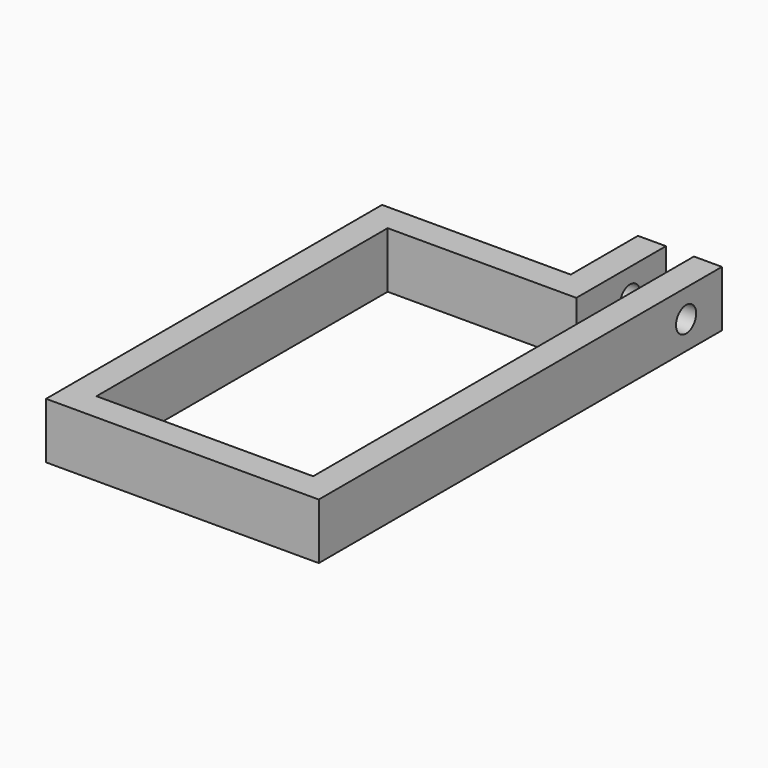
from build123d import *

# Parameters (mm, degrees)
F1_DEPTH = 10
F2_R     = 2.25
F3_DEPTH = 15.001


with BuildPart() as f1:
    # F0 (on Top) → F1 (new body)
    with BuildSketch(Plane.XY):
        Polygon((0, 75), (0, 0), (48.7, 0), (48.7, 90), (43.7, 90), (43.7, 5), (5, 5), (5, 70), (38.7, 70), (38.7, 90), (33.7, 90), (33.7, 75), align=None)
    extrude(amount=F1_DEPTH)

    # F2 (on face) → F3 (cut, through all)
    with BuildSketch(Plane(origin=(33.7, 0, 0), x_dir=(0, -1, 0), z_dir=(-1, 0, 0))):
        with Locations((-82, 5)):
            Circle(F2_R)
    extrude(amount=-F3_DEPTH, mode=Mode.SUBTRACT)


solid = f1.part
